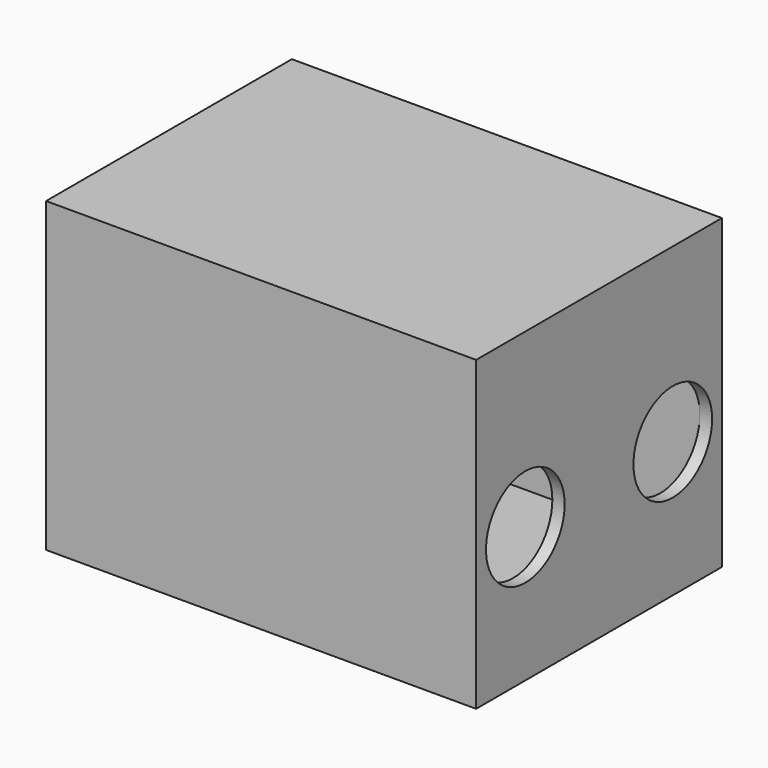
from build123d import *

# Parameters (mm, degrees)
F0_W     = 88.9
F0_H     = 63.5
F1_DEPTH = 63.5
F3_T     = -2.54
F2_R     = 10.16
F4_DEPTH = 25.4


with BuildPart() as f1:
    # F0 (on Top) → F1 (new body)
    with BuildSketch(Plane.XY):
        with Locations((10.68233, 16.748335)):
            Rectangle(F0_W, F0_H)
    extrude(amount=F1_DEPTH)

    # F3
    f3_openings = [f1.faces().sort_by_distance(p)[0] for p in [
        (-33.76767, 16.748335, 31.75),
    ]]
    offset(amount=F3_T, openings=f3_openings)

    # F2 (on face) → F4 (cut)
    with BuildSketch(Plane.YZ.offset(55.13233)):
        with Locations((-2.301665, 27.94)):
            Circle(F2_R)
        with Locations((35.798335, 27.94)):
            Circle(F2_R)
    extrude(amount=-F4_DEPTH, mode=Mode.SUBTRACT)


solid = f1.part
